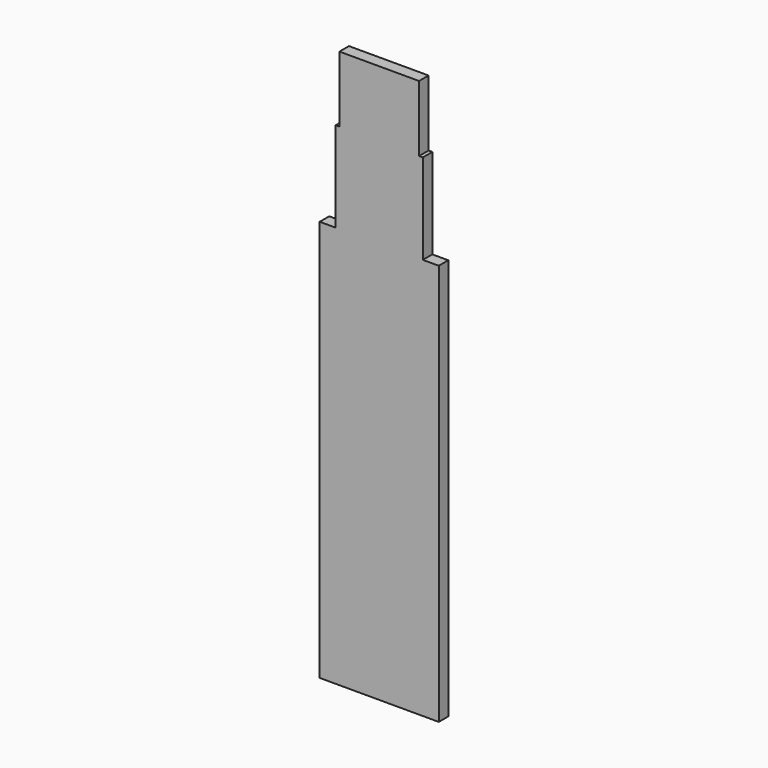
from build123d import *

# Parameters (mm, degrees)
F0_W     = 18.58779
F0_H     = 9.243336
F0_W_2   = 16.983496
F0_H_2   = 14.090102
F1_DEPTH = 2.54


with BuildPart() as f1:
    # F0 (on Front) → F1 (new body)
    with BuildSketch(Plane.XZ):
        Polygon((-12.7, 0), (0, 0), (12.7, 0), (12.7, 85.668492), (9.293895, 85.668492), (-9.293895, 85.668492), (-12.7, 85.668492), align=None)
        with Locations((0, 90.29016)):
            Rectangle(F0_W, F0_H)
        Polygon((-9.293895, 104.908898), (-9.293895, 94.911828), (9.293895, 94.911828), (9.293895, 104.908898), (8.491748, 104.908898), (-8.491748, 104.908898), align=None)
        with Locations((0, 111.953949)):
            Rectangle(F0_W_2, F0_H_2)
    extrude(amount=-F1_DEPTH)


solid = f1.part
